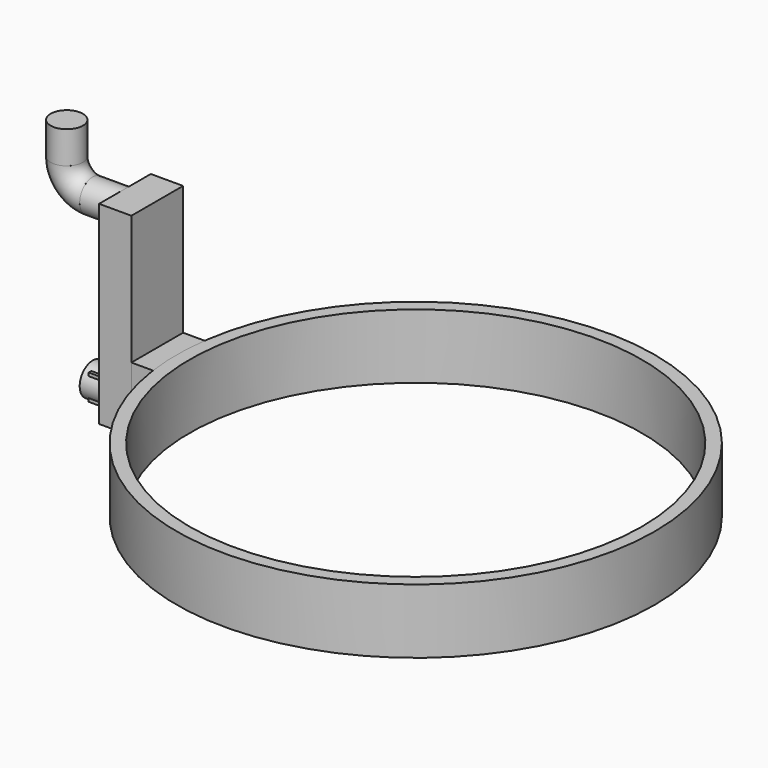
from build123d import *

# Parameters (mm, degrees)
BOX_W                   = 5
BOX_H                   = 10
BOX_DEPTH               = 10
BOX001_W                = 5
BOX001_H                = 10
BOX001_DEPTH            = 30
CYLINDER002_R           = 2.5
CYLINDER002_DEPTH       = 5
CYLINDER002_PITCH_ANGLE = -90
CYLINDER003_R           = 2.5
CYLINDER003_DEPTH       = 5
CYLINDER003_PITCH_ANGLE = -90
TORUS_R                 = 2.5
TORUS_ANGLE             = 90
CYLINDER004_R           = 2.5
CYLINDER004_DEPTH       = 5
BOX002_W                = 4
BOX002_H                = 4
BOX002_DEPTH            = 4
CYLINDER005_R           = 35
CYLINDER005_DEPTH       = 10
CYLINDER_R              = 37
CYLINDER_DEPTH          = 10


with BuildPart() as cube:
    # Box → Box (new body)
    with BuildSketch(Plane(origin=(-5, -5, 0), x_dir=(1, 0, 0), z_dir=(0, 0, 1))):
        with Locations((2.5, 5)):
            Rectangle(BOX_W, BOX_H)
    extrude(amount=BOX_DEPTH)


with BuildPart() as cube001:
    # Box001 → Box001 (new body)
    with BuildSketch(Plane(origin=(-10, -5, 0), x_dir=(1, 0, 0), z_dir=(0, 0, 1))):
        with Locations((2.5, 5)):
            Rectangle(BOX001_W, BOX001_H)
    extrude(amount=BOX001_DEPTH)


with BuildPart() as cylinder002:
    # Cylinder002 → Cylinder002 (new body)
    with BuildSketch(Plane.XY):
        Circle(CYLINDER002_R)
    extrude(amount=CYLINDER002_DEPTH)


with BuildPart() as cylinder002_1:
    # Cylinder002 pitch: moved
    add(cylinder002.part.rotate(Axis((0, 0, 0), (0, 1, 0)), CYLINDER002_PITCH_ANGLE))


with BuildPart() as cylinder002_2:
    # Cylinder002 placement: moved
    add(cylinder002_1.part.moved(Location((-10, 0, 2.5))))


with BuildPart() as cylinder003:
    # Cylinder003 → Cylinder003 (new body)
    with BuildSketch(Plane.XY):
        Circle(CYLINDER003_R)
    extrude(amount=CYLINDER003_DEPTH)


with BuildPart() as cylinder003_1:
    # Cylinder003 pitch: moved
    add(cylinder003.part.rotate(Axis((0, 0, 0), (0, 1, 0)), CYLINDER003_PITCH_ANGLE))


with BuildPart() as cylinder003_2:
    # Cylinder003 placement: moved
    add(cylinder003_1.part.moved(Location((-10, 0, 27.5))))


with BuildPart() as torus:
    # Torus → Torus (revolve)
    with BuildSketch(Plane(origin=(-15, 0, 31.5), x_dir=(0, 0, -1), z_dir=(1, 0, 0))):
        with Locations((4, 0)):
            Circle(TORUS_R)
    revolve(axis=Axis((-15, 0, 31.5), (0, 1, 0)), revolution_arc=TORUS_ANGLE)


with BuildPart() as cylinder004:
    # Cylinder004 → Cylinder004 (new body)
    with BuildSketch(Plane(origin=(-19, 0, 31.5), x_dir=(1, 0, 0), z_dir=(0, 0, 1))):
        Circle(CYLINDER004_R)
    extrude(amount=CYLINDER004_DEPTH)


with BuildPart() as cube002:
    # Box002 → Box002 (new body)
    with BuildSketch(Plane(origin=(-14, -2, 0.5), x_dir=(1, 0, 0), z_dir=(0, 0, 1))):
        with Locations((2, 2)):
            Rectangle(BOX002_W, BOX002_H)
    extrude(amount=BOX002_DEPTH)


with BuildPart() as cylinder005:
    # Cylinder005 → Cylinder005 (new body)
    with BuildSketch(Plane(origin=(35, 0, 0), x_dir=(1, 0, 0), z_dir=(0, 0, 1))):
        Circle(CYLINDER005_R)
    extrude(amount=CYLINDER005_DEPTH)


with BuildPart() as cut:
    # Cylinder → Cylinder (new body)
    with BuildSketch(Plane(origin=(35, 0, 0), x_dir=(1, 0, 0), z_dir=(0, 0, 1))):
        Circle(CYLINDER_R)
    extrude(amount=CYLINDER_DEPTH)

    # Cut: cut Cylinder005
    add(cylinder005.part, mode=Mode.SUBTRACT)


solid = Compound([cube.part, cube001.part, cylinder002_2.part, cylinder003_2.part, torus.part, cylinder004.part, cube002.part, cut.part])
